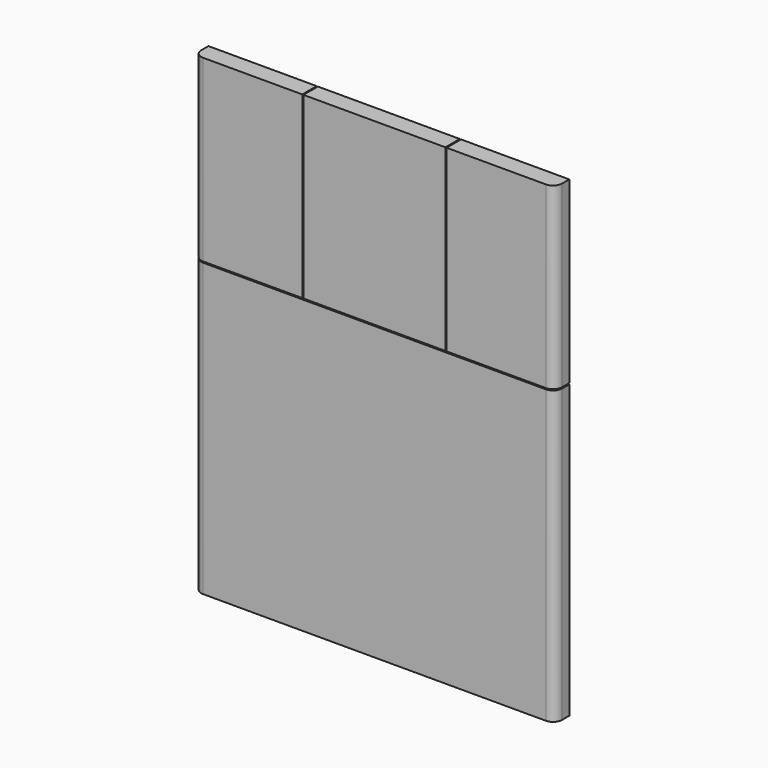
from build123d import *

# Parameters (mm, degrees)
F0_W     = 600
F0_H     = 485
F0_W_2   = 180
F0_H_2   = 298
F0_W_3   = 236
F1_DEPTH = 30
F2_R     = 15


with BuildPart() as f1:
    # F0 (on Front) → F1 (new body)
    with BuildSketch(Plane.XZ):
        with Locations((0, -142.5)):
            Rectangle(F0_W, F0_H)
        with Locations((-210, 251)):
            Rectangle(F0_W_2, F0_H_2)
        with Locations((210, 251)):
            Rectangle(F0_W_2, F0_H_2)
        with Locations((0, 251)):
            Rectangle(F0_W_3, F0_H_2)
    extrude(amount=F1_DEPTH)

    # F2
    f2_edges = [f1.edges().sort_by_distance(p)[0] for p in [
        (-300, -30, 251),
        (-300, -30, -142.5),
        (300, -30, 251),
        (300, -30, -142.5),
    ]]
    fillet(f2_edges, radius=F2_R)


solid = f1.part
